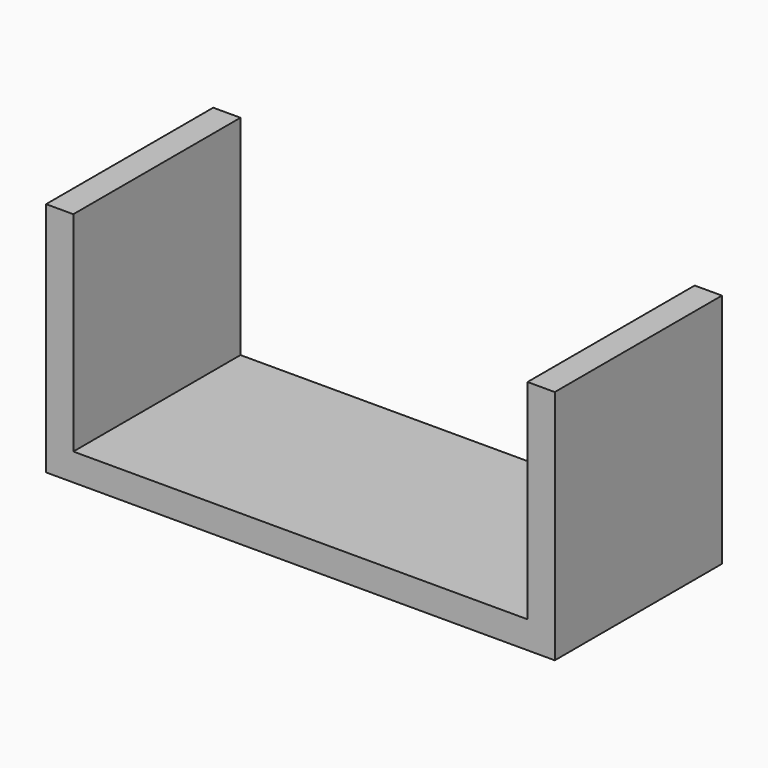
from build123d import *

# Parameters (mm, degrees)
BOX_W         = 3
BOX_H         = 23
BOX_DEPTH     = 23
ARRAY_X_COUNT = 2
ARRAY_X_PITCH = 53
BOX001_W      = 56
BOX001_H      = 23
BOX001_DEPTH  = 3


with BuildPart() as baseandtoparray:
    # Box → Box (new body)
    with BuildSketch(Plane.XY.offset(3)):
        with Locations((1.5, 11.5)):
            Rectangle(BOX_W, BOX_H)
    extrude(amount=BOX_DEPTH)

    # Array X: baseAndTopArray ×2


with BuildPart() as baseandtoparray_1:
    add(baseandtoparray.part)
    with Locations(*[(i * ARRAY_X_PITCH, 0, 0) for i in range(1, ARRAY_X_COUNT)]):
        add(baseandtoparray.part)


with BuildPart() as obj1:
    # Box001 → Box001 (new body)
    with BuildSketch(Plane.XY):
        with Locations((28, 11.5)):
            Rectangle(BOX001_W, BOX001_H)
    extrude(amount=BOX001_DEPTH)

    # Fusion: union baseAndTopArray
    add(baseandtoparray_1.part)


solid = obj1.part
